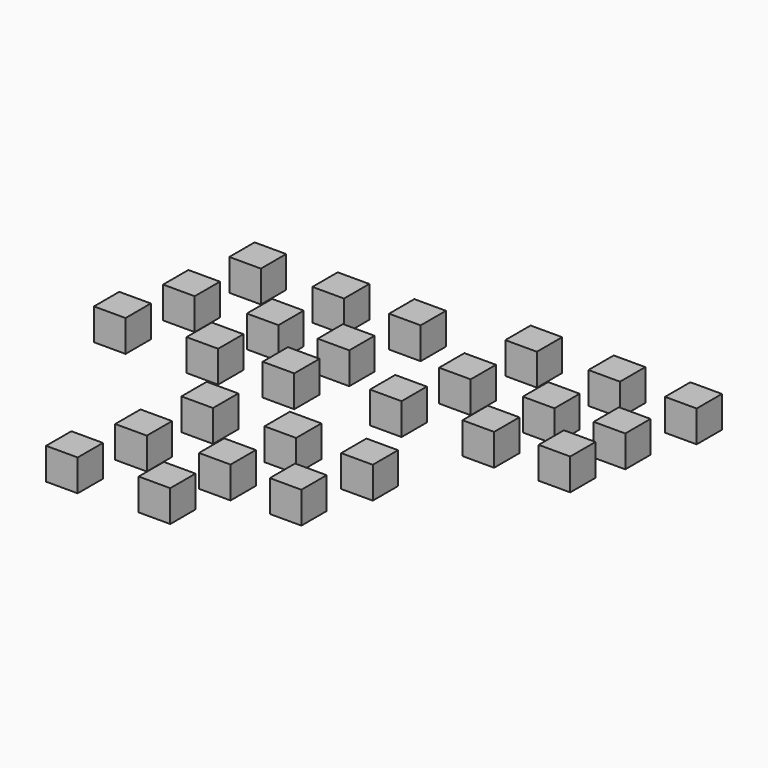
from build123d import *

# Parameters (mm, degrees)
F0_W     = 16.933334
F0_H     = 16.933334
F0_W_2   = 16.933333
F0_H_2   = 16.933333
F1_DEPTH = 16.933333


with BuildPart() as f1:
    # F0 (on Top) → F1 (new body)
    with BuildSketch(Plane.XY):
        with Locations((-63.173309, 50.297189)):
            Rectangle(F0_W, F0_H)
        with Locations((-19.058235, 50.851412)):
            Rectangle(F0_W, F0_H)
        with Locations((21.174712, 51.910173)):
            Rectangle(F0_W, F0_H)
        with Locations((-69.172956, 13.441829)):
            Rectangle(F0_W, F0_H)
        with Locations((-25.410806, 14.853512)):
            Rectangle(F0_W_2, F0_H)
        with Locations((11.998776, 15.559353)):
            Rectangle(F0_W_2, F0_H)
        with Locations((-79.407654, -20.085625)):
            Rectangle(F0_W_2, F0_H_2)
        with Locations((-31.763375, -17.615182)):
            Rectangle(F0_W, F0_H_2)
        with Locations((7.057888, -15.144738)):
            Rectangle(F0_W, F0_H_2)
        with Locations((74.112793, 63.612897)):
            Rectangle(F0_W_2, F0_H_2)
        with Locations((118.227868, 64.167121)):
            Rectangle(F0_W_2, F0_H)
        with Locations((158.460814, 65.225882)):
            Rectangle(F0_W_2, F0_H)
        with Locations((68.113146, 26.757537)):
            Rectangle(F0_W_2, F0_H_2)
        with Locations((111.875295, 28.16922)):
            Rectangle(F0_W_2, F0_H_2)
        with Locations((149.284879, 28.875061)):
            Rectangle(F0_W, F0_H_2)
        with Locations((57.878447, -6.769916)):
            Rectangle(F0_W_2, F0_H_2)
        with Locations((105.522728, -4.299473)):
            Rectangle(F0_W_2, F0_H_2)
        with Locations((144.34399, -1.829029)):
            Rectangle(F0_W_2, F0_H_2)
        with Locations((0.12452, -60.912975)):
            Rectangle(F0_W_2, F0_H_2)
        with Locations((44.239593, -60.358752)):
            Rectangle(F0_W_2, F0_H)
        with Locations((84.472541, -59.299991)):
            Rectangle(F0_W, F0_H)
        with Locations((-5.875127, -97.768335)):
            Rectangle(F0_W_2, F0_H_2)
        with Locations((37.887022, -96.356652)):
            Rectangle(F0_W, F0_H_2)
        with Locations((75.296605, -95.650812)):
            Rectangle(F0_W, F0_H_2)
        with Locations((-16.109826, -131.295789)):
            Rectangle(F0_W, F0_H_2)
        with Locations((31.534454, -128.825346)):
            Rectangle(F0_W, F0_H_2)
    extrude(amount=F1_DEPTH)


solid = f1.part
